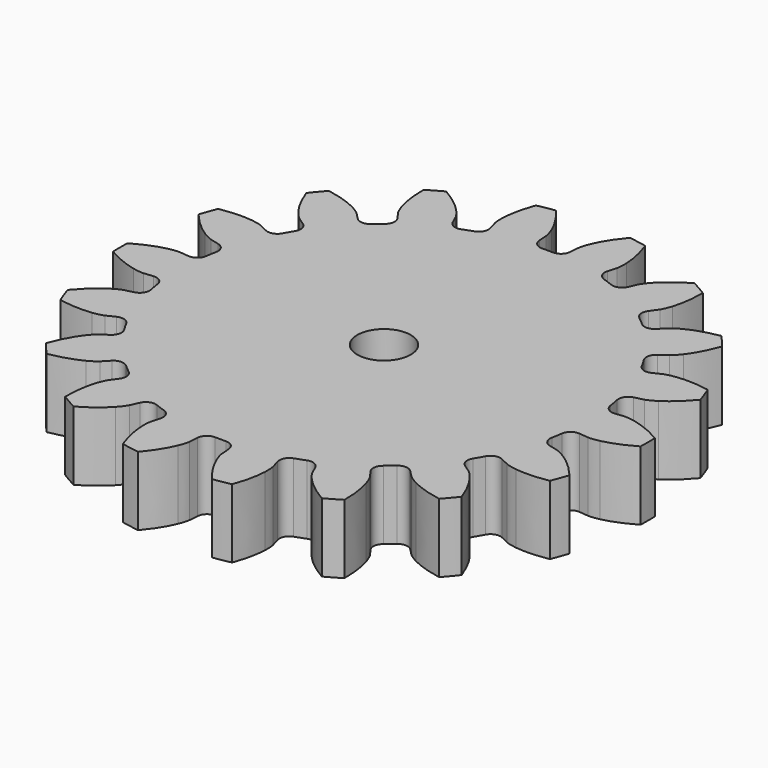
from build123d import *

# Parameters (mm, degrees)
CYLINDER002_R     = 1.55
CYLINDER002_DEPTH = 10
PAD009_DEPTH      = 4


with BuildPart() as cylinder002:
    # Cylinder002 → Cylinder002 (new body)
    with BuildSketch(Plane.XY):
        Circle(CYLINDER002_R)
    extrude(amount=CYLINDER002_DEPTH)


with BuildPart() as cut017:
    # InvoluteGear002 → Pad009 (new body)
    with BuildSketch(Plane.XY):
        with BuildLine():
            Line((12.353244, -1.266552), (12.898676, -1.321311))
            add(Edge.make_bspline(
                [(12.898676, -1.321311), (12.968588, -1.323993), (13.178929, -1.323215), (13.530236, -1.24626)],
                knots=[0, 0, 0, 0, 1, 1, 1, 1], degree=3))
            add(Edge.make_bspline(
                [(13.530236, -1.24626), (13.95014, -1.152721), (14.553309, -0.951206), (15.292872, -0.520698)],
                knots=[0, 0, 0, 0, 1, 1, 1, 1], degree=3))
            ThreePointArc((15.292872, -0.520698), (15.301735, 0), (15.292872, 0.520698))
            add(Edge.make_bspline(
                [(15.292872, 0.520698), (14.553309, 0.951206), (13.95014, 1.152721), (13.530236, 1.24626)],
                knots=[0, 0, 0, 0, 1, 1, 1, 1], degree=3))
            add(Edge.make_bspline(
                [(13.530236, 1.24626), (13.178929, 1.323215), (12.968588, 1.323993), (12.898676, 1.321311)],
                knots=[0, 0, 0, 0, 1, 1, 1, 1], degree=3))
            Line((12.898676, 1.321311), (12.353244, 1.266552))
            ThreePointArc((12.353244, 1.266552), (11.943115, 1.383923), (11.727363, 1.751934))
            ThreePointArc((11.727363, 1.751934), (11.677358, 2.059033), (11.619313, 2.364714))
            ThreePointArc((11.619313, 2.364714), (11.696187, 2.784324), (12.041438, 3.034889))
            Line((12.041438, 3.034889), (12.572705, 3.169981))
            add(Edge.make_bspline(
                [(12.572705, 3.169981), (12.639319, 3.191372), (12.836708, 3.264043), (13.14051, 3.456512)],
                knots=[0, 0, 0, 0, 1, 1, 1, 1], degree=3))
            add(Edge.make_bspline(
                [(13.14051, 3.456512), (13.503097, 3.688025), (14.000969, 4.083683), (14.548688, 4.741174)],
                knots=[0, 0, 0, 0, 1, 1, 1, 1], degree=3))
            ThreePointArc((14.548688, 4.741174), (14.378928, 5.233502), (14.19251, 5.719766))
            add(Edge.make_bspline(
                [(14.19251, 5.719766), (13.350306, 5.871367), (12.714589, 5.854432), (12.288017, 5.798715)],
                knots=[0, 0, 0, 0, 1, 1, 1, 1], degree=3))
            add(Edge.make_bspline(
                [(12.288017, 5.798715), (11.931576, 5.750875), (11.733654, 5.679665), (11.668876, 5.653233)],
                knots=[0, 0, 0, 0, 1, 1, 1, 1], degree=3))
            Line((11.668876, 5.653233), (11.175066, 5.415227))
            ThreePointArc((11.175066, 5.415227), (10.749528, 5.385248), (10.420919, 5.657274))
            ThreePointArc((10.420919, 5.657274), (10.268896, 5.92875), (10.109803, 6.196144))
            ThreePointArc((10.109803, 6.196144), (10.038525, 6.61674), (10.277258, 6.970277))
            Line((10.277258, 6.970277), (10.730281, 7.278926))
            add(Edge.make_bspline(
                [(10.730281, 7.278926), (10.785561, 7.32181), (10.946192, 7.45761), (11.165843, 7.742377)],
                knots=[0, 0, 0, 0, 1, 1, 1, 1], degree=3))
            add(Edge.make_bspline(
                [(11.165843, 7.742377), (11.427382, 8.083941), (11.759905, 8.626021), (12.049718, 9.431191)],
                knots=[0, 0, 0, 0, 1, 1, 1, 1], degree=3))
            ThreePointArc((12.049718, 9.431191), (11.721809, 9.835766), (11.380322, 10.228946))
            add(Edge.make_bspline(
                [(11.380322, 10.228946), (10.537058, 10.083353), (9.945472, 9.850013), (9.563682, 9.651759)],
                knots=[0, 0, 0, 0, 1, 1, 1, 1], degree=3))
            add(Edge.make_bspline(
                [(9.563682, 9.651759), (9.245099, 9.484894), (9.083468, 9.350285), (9.031637, 9.303292)],
                knots=[0, 0, 0, 0, 1, 1, 1, 1], degree=3))
            Line((9.031637, 9.303292), (8.64901, 8.910747))
            ThreePointArc((8.64901, 8.910747), (8.259388, 8.737033), (7.857559, 8.880263))
            ThreePointArc((7.857559, 8.880263), (7.621854, 9.083372), (7.380901, 9.280227))
            ThreePointArc((7.380901, 9.280227), (7.17007, 9.65108), (7.273488, 10.064947))
            Line((7.273488, 10.064947), (7.593626, 10.509926))
            add(Edge.make_bspline(
                [(7.593626, 10.509926), (7.630906, 10.56913), (7.735403, 10.751679), (7.844411, 11.094398)],
                knots=[0, 0, 0, 0, 1, 1, 1, 1], degree=3))
            add(Edge.make_bspline(
                [(7.844411, 11.094398), (7.973356, 11.504815), (8.100424, 12.127932), (8.097374, 12.983667)],
                knots=[0, 0, 0, 0, 1, 1, 1, 1], degree=3))
            ThreePointArc((8.097374, 12.983667), (7.650868, 13.251691), (7.195499, 13.504365))
            add(Edge.make_bspline(
                [(7.195499, 13.504365), (6.452886, 13.079139), (5.976784, 12.657536), (5.685825, 12.340659)],
                knots=[0, 0, 0, 0, 1, 1, 1, 1], degree=3))
            add(Edge.make_bspline(
                [(5.685825, 12.340659), (5.443526, 12.074895), (5.337682, 11.893123), (5.305049, 11.831236)],
                knots=[0, 0, 0, 0, 1, 1, 1, 1], degree=3))
            Line((5.305049, 11.831236), (5.079756, 11.331499))
            ThreePointArc((5.079756, 11.331499), (4.773045, 11.035002), (4.346462, 11.032161))
            ThreePointArc((4.346462, 11.032161), (4.055504, 11.142405), (3.761754, 11.244977))
            ThreePointArc((3.761754, 11.244977), (3.436798, 11.521357), (3.392428, 11.945636))
            Line((3.392428, 11.945636), (3.541068, 12.473273))
            add(Edge.make_bspline(
                [(3.541068, 12.473273), (3.555851, 12.541657), (3.59161, 12.748937), (3.576828, 13.108271)],
                knots=[0, 0, 0, 0, 1, 1, 1, 1], degree=3))
            add(Edge.make_bspline(
                [(3.576828, 13.108271), (3.557625, 13.538038), (3.463911, 14.167037), (3.168367, 14.970121)],
                knots=[0, 0, 0, 0, 1, 1, 1, 1], degree=3))
            ThreePointArc((3.168367, 14.970121), (2.657118, 15.069267), (2.142792, 15.150957))
            add(Edge.make_bspline(
                [(2.142792, 15.150957), (1.5904, 14.497387), (1.287208, 13.938374), (1.122174, 13.541093)],
                knots=[0, 0, 0, 0, 1, 1, 1, 1], degree=3))
            add(Edge.make_bspline(
                [(1.122174, 13.541093), (0.985384, 13.208485), (0.948093, 13.001475), (0.938595, 12.932159)],
                knots=[0, 0, 0, 0, 1, 1, 1, 1], degree=3))
            Line((0.938595, 12.932159), (0.897808, 12.385505))
            ThreePointArc((0.897808, 12.385505), (0.711002, 12.001988), (0.311117, 11.853418))
            ThreePointArc((0.311117, 11.853418), (0, 11.8575), (-0.311117, 11.853418))
            ThreePointArc((-0.311117, 11.853418), (-0.711002, 12.001988), (-0.897808, 12.385505))
            Line((-0.897808, 12.385505), (-0.938595, 12.932159))
            add(Edge.make_bspline(
                [(-0.938595, 12.932159), (-0.948093, 13.001475), (-0.985384, 13.208485), (-1.122174, 13.541093)],
                knots=[0, 0, 0, 0, 1, 1, 1, 1], degree=3))
            add(Edge.make_bspline(
                [(-1.122174, 13.541093), (-1.287208, 13.938374), (-1.5904, 14.497387), (-2.142792, 15.150957)],
                knots=[0, 0, 0, 0, 1, 1, 1, 1], degree=3))
            ThreePointArc((-2.142792, 15.150957), (-2.657118, 15.069267), (-3.168367, 14.970121))
            add(Edge.make_bspline(
                [(-3.168367, 14.970121), (-3.463911, 14.167037), (-3.557625, 13.538038), (-3.576828, 13.108271)],
                knots=[0, 0, 0, 0, 1, 1, 1, 1], degree=3))
            add(Edge.make_bspline(
                [(-3.576828, 13.108271), (-3.59161, 12.748937), (-3.555851, 12.541657), (-3.541068, 12.473273)],
                knots=[0, 0, 0, 0, 1, 1, 1, 1], degree=3))
            Line((-3.541068, 12.473273), (-3.392428, 11.945636))
            ThreePointArc((-3.392428, 11.945636), (-3.436798, 11.521357), (-3.761754, 11.244977))
            ThreePointArc((-3.761754, 11.244977), (-4.055504, 11.142405), (-4.346462, 11.032161))
            ThreePointArc((-4.346462, 11.032161), (-4.773045, 11.035002), (-5.079756, 11.331499))
            Line((-5.079756, 11.331499), (-5.305049, 11.831236))
            add(Edge.make_bspline(
                [(-5.305049, 11.831236), (-5.337682, 11.893123), (-5.443526, 12.074895), (-5.685825, 12.340659)],
                knots=[0, 0, 0, 0, 1, 1, 1, 1], degree=3))
            add(Edge.make_bspline(
                [(-5.685825, 12.340659), (-5.976784, 12.657536), (-6.452886, 13.079139), (-7.195499, 13.504365)],
                knots=[0, 0, 0, 0, 1, 1, 1, 1], degree=3))
            ThreePointArc((-7.195499, 13.504365), (-7.650868, 13.251691), (-8.097374, 12.983667))
            add(Edge.make_bspline(
                [(-8.097374, 12.983667), (-8.100424, 12.127932), (-7.973356, 11.504815), (-7.844411, 11.094398)],
                knots=[0, 0, 0, 0, 1, 1, 1, 1], degree=3))
            add(Edge.make_bspline(
                [(-7.844411, 11.094398), (-7.735403, 10.751679), (-7.630906, 10.56913), (-7.593626, 10.509926)],
                knots=[0, 0, 0, 0, 1, 1, 1, 1], degree=3))
            Line((-7.593626, 10.509926), (-7.273488, 10.064947))
            ThreePointArc((-7.273488, 10.064947), (-7.17007, 9.65108), (-7.380901, 9.280227))
            ThreePointArc((-7.380901, 9.280227), (-7.621854, 9.083372), (-7.857559, 8.880263))
            ThreePointArc((-7.857559, 8.880263), (-8.259388, 8.737033), (-8.64901, 8.910747))
            Line((-8.64901, 8.910747), (-9.031637, 9.303292))
            add(Edge.make_bspline(
                [(-9.031637, 9.303292), (-9.083468, 9.350285), (-9.245099, 9.484894), (-9.563682, 9.651759)],
                knots=[0, 0, 0, 0, 1, 1, 1, 1], degree=3))
            add(Edge.make_bspline(
                [(-9.563682, 9.651759), (-9.945472, 9.850013), (-10.537058, 10.083353), (-11.380322, 10.228946)],
                knots=[0, 0, 0, 0, 1, 1, 1, 1], degree=3))
            ThreePointArc((-11.380322, 10.228946), (-11.721809, 9.835766), (-12.049718, 9.431191))
            add(Edge.make_bspline(
                [(-12.049718, 9.431191), (-11.759905, 8.626021), (-11.427382, 8.083941), (-11.165843, 7.742377)],
                knots=[0, 0, 0, 0, 1, 1, 1, 1], degree=3))
            add(Edge.make_bspline(
                [(-11.165843, 7.742377), (-10.946192, 7.45761), (-10.785561, 7.32181), (-10.730281, 7.278926)],
                knots=[0, 0, 0, 0, 1, 1, 1, 1], degree=3))
            Line((-10.730281, 7.278926), (-10.277258, 6.970277))
            ThreePointArc((-10.277258, 6.970277), (-10.038525, 6.61674), (-10.109803, 6.196144))
            ThreePointArc((-10.109803, 6.196144), (-10.268896, 5.92875), (-10.420919, 5.657274))
            ThreePointArc((-10.420919, 5.657274), (-10.749528, 5.385248), (-11.175066, 5.415227))
            Line((-11.175066, 5.415227), (-11.668876, 5.653233))
            add(Edge.make_bspline(
                [(-11.668876, 5.653233), (-11.733654, 5.679665), (-11.931576, 5.750875), (-12.288017, 5.798715)],
                knots=[0, 0, 0, 0, 1, 1, 1, 1], degree=3))
            add(Edge.make_bspline(
                [(-12.288017, 5.798715), (-12.714589, 5.854432), (-13.350306, 5.871367), (-14.19251, 5.719766)],
                knots=[0, 0, 0, 0, 1, 1, 1, 1], degree=3))
            ThreePointArc((-14.19251, 5.719766), (-14.378928, 5.233502), (-14.548688, 4.741174))
            add(Edge.make_bspline(
                [(-14.548688, 4.741174), (-14.000969, 4.083683), (-13.503097, 3.688025), (-13.14051, 3.456512)],
                knots=[0, 0, 0, 0, 1, 1, 1, 1], degree=3))
            add(Edge.make_bspline(
                [(-13.14051, 3.456512), (-12.836708, 3.264043), (-12.639319, 3.191372), (-12.572705, 3.169981)],
                knots=[0, 0, 0, 0, 1, 1, 1, 1], degree=3))
            Line((-12.572705, 3.169981), (-12.041438, 3.034889))
            ThreePointArc((-12.041438, 3.034889), (-11.696187, 2.784324), (-11.619313, 2.364714))
            ThreePointArc((-11.619313, 2.364714), (-11.677358, 2.059033), (-11.727363, 1.751934))
            ThreePointArc((-11.727363, 1.751934), (-11.943115, 1.383923), (-12.353244, 1.266552))
            Line((-12.353244, 1.266552), (-12.898676, 1.321311))
            add(Edge.make_bspline(
                [(-12.898676, 1.321311), (-12.968588, 1.323993), (-13.178929, 1.323215), (-13.530236, 1.24626)],
                knots=[0, 0, 0, 0, 1, 1, 1, 1], degree=3))
            add(Edge.make_bspline(
                [(-13.530236, 1.24626), (-13.95014, 1.152721), (-14.553309, 0.951206), (-15.292872, 0.520698)],
                knots=[0, 0, 0, 0, 1, 1, 1, 1], degree=3))
            ThreePointArc((-15.292872, 0.520698), (-15.301735, 0), (-15.292872, -0.520698))
            add(Edge.make_bspline(
                [(-15.292872, -0.520698), (-14.553309, -0.951206), (-13.95014, -1.152721), (-13.530236, -1.24626)],
                knots=[0, 0, 0, 0, 1, 1, 1, 1], degree=3))
            add(Edge.make_bspline(
                [(-13.530236, -1.24626), (-13.178929, -1.323215), (-12.968588, -1.323993), (-12.898676, -1.321311)],
                knots=[0, 0, 0, 0, 1, 1, 1, 1], degree=3))
            Line((-12.898676, -1.321311), (-12.353244, -1.266552))
            ThreePointArc((-12.353244, -1.266552), (-11.943115, -1.383923), (-11.727363, -1.751934))
            ThreePointArc((-11.727363, -1.751934), (-11.677358, -2.059033), (-11.619313, -2.364714))
            ThreePointArc((-11.619313, -2.364714), (-11.696187, -2.784324), (-12.041438, -3.034889))
            Line((-12.041438, -3.034889), (-12.572705, -3.169981))
            add(Edge.make_bspline(
                [(-12.572705, -3.169981), (-12.639319, -3.191372), (-12.836708, -3.264043), (-13.14051, -3.456512)],
                knots=[0, 0, 0, 0, 1, 1, 1, 1], degree=3))
            add(Edge.make_bspline(
                [(-13.14051, -3.456512), (-13.503097, -3.688025), (-14.000969, -4.083683), (-14.548688, -4.741174)],
                knots=[0, 0, 0, 0, 1, 1, 1, 1], degree=3))
            ThreePointArc((-14.548688, -4.741174), (-14.378928, -5.233502), (-14.19251, -5.719766))
            add(Edge.make_bspline(
                [(-14.19251, -5.719766), (-13.350306, -5.871367), (-12.714589, -5.854432), (-12.288017, -5.798715)],
                knots=[0, 0, 0, 0, 1, 1, 1, 1], degree=3))
            add(Edge.make_bspline(
                [(-12.288017, -5.798715), (-11.931576, -5.750875), (-11.733654, -5.679665), (-11.668876, -5.653233)],
                knots=[0, 0, 0, 0, 1, 1, 1, 1], degree=3))
            Line((-11.668876, -5.653233), (-11.175066, -5.415227))
            ThreePointArc((-11.175066, -5.415227), (-10.749528, -5.385248), (-10.420919, -5.657274))
            ThreePointArc((-10.420919, -5.657274), (-10.268896, -5.92875), (-10.109803, -6.196144))
            ThreePointArc((-10.109803, -6.196144), (-10.038525, -6.61674), (-10.277258, -6.970277))
            Line((-10.277258, -6.970277), (-10.730281, -7.278926))
            add(Edge.make_bspline(
                [(-10.730281, -7.278926), (-10.785561, -7.32181), (-10.946192, -7.45761), (-11.165843, -7.742377)],
                knots=[0, 0, 0, 0, 1, 1, 1, 1], degree=3))
            add(Edge.make_bspline(
                [(-11.165843, -7.742377), (-11.427382, -8.083941), (-11.759905, -8.626021), (-12.049718, -9.431191)],
                knots=[0, 0, 0, 0, 1, 1, 1, 1], degree=3))
            ThreePointArc((-12.049718, -9.431191), (-11.721809, -9.835766), (-11.380322, -10.228946))
            add(Edge.make_bspline(
                [(-11.380322, -10.228946), (-10.537058, -10.083353), (-9.945472, -9.850013), (-9.563682, -9.651759)],
                knots=[0, 0, 0, 0, 1, 1, 1, 1], degree=3))
            add(Edge.make_bspline(
                [(-9.563682, -9.651759), (-9.245099, -9.484894), (-9.083468, -9.350285), (-9.031637, -9.303292)],
                knots=[0, 0, 0, 0, 1, 1, 1, 1], degree=3))
            Line((-9.031637, -9.303292), (-8.64901, -8.910747))
            ThreePointArc((-8.64901, -8.910747), (-8.259388, -8.737033), (-7.857559, -8.880263))
            ThreePointArc((-7.857559, -8.880263), (-7.621854, -9.083372), (-7.380901, -9.280227))
            ThreePointArc((-7.380901, -9.280227), (-7.17007, -9.65108), (-7.273488, -10.064947))
            Line((-7.273488, -10.064947), (-7.593626, -10.509926))
            add(Edge.make_bspline(
                [(-7.593626, -10.509926), (-7.630906, -10.56913), (-7.735403, -10.751679), (-7.844411, -11.094398)],
                knots=[0, 0, 0, 0, 1, 1, 1, 1], degree=3))
            add(Edge.make_bspline(
                [(-7.844411, -11.094398), (-7.973356, -11.504815), (-8.100424, -12.127932), (-8.097374, -12.983667)],
                knots=[0, 0, 0, 0, 1, 1, 1, 1], degree=3))
            ThreePointArc((-8.097374, -12.983667), (-7.650868, -13.251691), (-7.195499, -13.504365))
            add(Edge.make_bspline(
                [(-7.195499, -13.504365), (-6.452886, -13.079139), (-5.976784, -12.657536), (-5.685825, -12.340659)],
                knots=[0, 0, 0, 0, 1, 1, 1, 1], degree=3))
            add(Edge.make_bspline(
                [(-5.685825, -12.340659), (-5.443526, -12.074895), (-5.337682, -11.893123), (-5.305049, -11.831236)],
                knots=[0, 0, 0, 0, 1, 1, 1, 1], degree=3))
            Line((-5.305049, -11.831236), (-5.079756, -11.331499))
            ThreePointArc((-5.079756, -11.331499), (-4.773045, -11.035002), (-4.346462, -11.032161))
            ThreePointArc((-4.346462, -11.032161), (-4.055504, -11.142405), (-3.761754, -11.244977))
            ThreePointArc((-3.761754, -11.244977), (-3.436798, -11.521357), (-3.392428, -11.945636))
            Line((-3.392428, -11.945636), (-3.541068, -12.473273))
            add(Edge.make_bspline(
                [(-3.541068, -12.473273), (-3.555851, -12.541657), (-3.59161, -12.748937), (-3.576828, -13.108271)],
                knots=[0, 0, 0, 0, 1, 1, 1, 1], degree=3))
            add(Edge.make_bspline(
                [(-3.576828, -13.108271), (-3.557625, -13.538038), (-3.463911, -14.167037), (-3.168367, -14.970121)],
                knots=[0, 0, 0, 0, 1, 1, 1, 1], degree=3))
            ThreePointArc((-3.168367, -14.970121), (-2.657118, -15.069267), (-2.142792, -15.150957))
            add(Edge.make_bspline(
                [(-2.142792, -15.150957), (-1.5904, -14.497387), (-1.287208, -13.938374), (-1.122174, -13.541093)],
                knots=[0, 0, 0, 0, 1, 1, 1, 1], degree=3))
            add(Edge.make_bspline(
                [(-1.122174, -13.541093), (-0.985384, -13.208485), (-0.948093, -13.001475), (-0.938595, -12.932159)],
                knots=[0, 0, 0, 0, 1, 1, 1, 1], degree=3))
            Line((-0.938595, -12.932159), (-0.897808, -12.385505))
            ThreePointArc((-0.897808, -12.385505), (-0.711002, -12.001988), (-0.311117, -11.853418))
            ThreePointArc((-0.311117, -11.853418), (0, -11.8575), (0.311117, -11.853418))
            ThreePointArc((0.311117, -11.853418), (0.711002, -12.001988), (0.897808, -12.385505))
            Line((0.897808, -12.385505), (0.938595, -12.932159))
            add(Edge.make_bspline(
                [(0.938595, -12.932159), (0.948093, -13.001475), (0.985384, -13.208485), (1.122174, -13.541093)],
                knots=[0, 0, 0, 0, 1, 1, 1, 1], degree=3))
            add(Edge.make_bspline(
                [(1.122174, -13.541093), (1.287208, -13.938374), (1.5904, -14.497387), (2.142792, -15.150957)],
                knots=[0, 0, 0, 0, 1, 1, 1, 1], degree=3))
            ThreePointArc((2.142792, -15.150957), (2.657118, -15.069267), (3.168367, -14.970121))
            add(Edge.make_bspline(
                [(3.168367, -14.970121), (3.463911, -14.167037), (3.557625, -13.538038), (3.576828, -13.108271)],
                knots=[0, 0, 0, 0, 1, 1, 1, 1], degree=3))
            add(Edge.make_bspline(
                [(3.576828, -13.108271), (3.59161, -12.748937), (3.555851, -12.541657), (3.541068, -12.473273)],
                knots=[0, 0, 0, 0, 1, 1, 1, 1], degree=3))
            Line((3.541068, -12.473273), (3.392428, -11.945636))
            ThreePointArc((3.392428, -11.945636), (3.436798, -11.521357), (3.761754, -11.244977))
            ThreePointArc((3.761754, -11.244977), (4.055504, -11.142405), (4.346462, -11.032161))
            ThreePointArc((4.346462, -11.032161), (4.773045, -11.035002), (5.079756, -11.331499))
            Line((5.079756, -11.331499), (5.305049, -11.831236))
            add(Edge.make_bspline(
                [(5.305049, -11.831236), (5.337682, -11.893123), (5.443526, -12.074895), (5.685825, -12.340659)],
                knots=[0, 0, 0, 0, 1, 1, 1, 1], degree=3))
            add(Edge.make_bspline(
                [(5.685825, -12.340659), (5.976784, -12.657536), (6.452886, -13.079139), (7.195499, -13.504365)],
                knots=[0, 0, 0, 0, 1, 1, 1, 1], degree=3))
            ThreePointArc((7.195499, -13.504365), (7.650868, -13.251691), (8.097374, -12.983667))
            add(Edge.make_bspline(
                [(8.097374, -12.983667), (8.100424, -12.127932), (7.973356, -11.504815), (7.844411, -11.094398)],
                knots=[0, 0, 0, 0, 1, 1, 1, 1], degree=3))
            add(Edge.make_bspline(
                [(7.844411, -11.094398), (7.735403, -10.751679), (7.630906, -10.56913), (7.593626, -10.509926)],
                knots=[0, 0, 0, 0, 1, 1, 1, 1], degree=3))
            Line((7.593626, -10.509926), (7.273488, -10.064947))
            ThreePointArc((7.273488, -10.064947), (7.17007, -9.65108), (7.380901, -9.280227))
            ThreePointArc((7.380901, -9.280227), (7.621854, -9.083372), (7.857559, -8.880263))
            ThreePointArc((7.857559, -8.880263), (8.259388, -8.737033), (8.64901, -8.910747))
            Line((8.64901, -8.910747), (9.031637, -9.303292))
            add(Edge.make_bspline(
                [(9.031637, -9.303292), (9.083468, -9.350285), (9.245099, -9.484894), (9.563682, -9.651759)],
                knots=[0, 0, 0, 0, 1, 1, 1, 1], degree=3))
            add(Edge.make_bspline(
                [(9.563682, -9.651759), (9.945472, -9.850013), (10.537058, -10.083353), (11.380322, -10.228946)],
                knots=[0, 0, 0, 0, 1, 1, 1, 1], degree=3))
            ThreePointArc((11.380322, -10.228946), (11.721809, -9.835766), (12.049718, -9.431191))
            add(Edge.make_bspline(
                [(12.049718, -9.431191), (11.759905, -8.626021), (11.427382, -8.083941), (11.165843, -7.742377)],
                knots=[0, 0, 0, 0, 1, 1, 1, 1], degree=3))
            add(Edge.make_bspline(
                [(11.165843, -7.742377), (10.946192, -7.45761), (10.785561, -7.32181), (10.730281, -7.278926)],
                knots=[0, 0, 0, 0, 1, 1, 1, 1], degree=3))
            Line((10.730281, -7.278926), (10.277258, -6.970277))
            ThreePointArc((10.277258, -6.970277), (10.038525, -6.61674), (10.109803, -6.196144))
            ThreePointArc((10.109803, -6.196144), (10.268896, -5.92875), (10.420919, -5.657274))
            ThreePointArc((10.420919, -5.657274), (10.749528, -5.385248), (11.175066, -5.415227))
            Line((11.175066, -5.415227), (11.668876, -5.653233))
            add(Edge.make_bspline(
                [(11.668876, -5.653233), (11.733654, -5.679665), (11.931576, -5.750875), (12.288017, -5.798715)],
                knots=[0, 0, 0, 0, 1, 1, 1, 1], degree=3))
            add(Edge.make_bspline(
                [(12.288017, -5.798715), (12.714589, -5.854432), (13.350306, -5.871367), (14.19251, -5.719766)],
                knots=[0, 0, 0, 0, 1, 1, 1, 1], degree=3))
            ThreePointArc((14.19251, -5.719766), (14.378928, -5.233502), (14.548688, -4.741174))
            add(Edge.make_bspline(
                [(14.548688, -4.741174), (14.000969, -4.083683), (13.503097, -3.688025), (13.14051, -3.456512)],
                knots=[0, 0, 0, 0, 1, 1, 1, 1], degree=3))
            add(Edge.make_bspline(
                [(13.14051, -3.456512), (12.836708, -3.264043), (12.639319, -3.191372), (12.572705, -3.169981)],
                knots=[0, 0, 0, 0, 1, 1, 1, 1], degree=3))
            Line((12.572705, -3.169981), (12.041438, -3.034889))
            ThreePointArc((12.041438, -3.034889), (11.696187, -2.784324), (11.619313, -2.364714))
            ThreePointArc((11.619313, -2.364714), (11.677358, -2.059033), (11.727363, -1.751934))
            ThreePointArc((11.727363, -1.751934), (11.943115, -1.383923), (12.353244, -1.266552))
        make_face()
    extrude(amount=PAD009_DEPTH)

    # Cut017: cut Cylinder002
    add(cylinder002.part, mode=Mode.SUBTRACT)


solid = cut017.part
